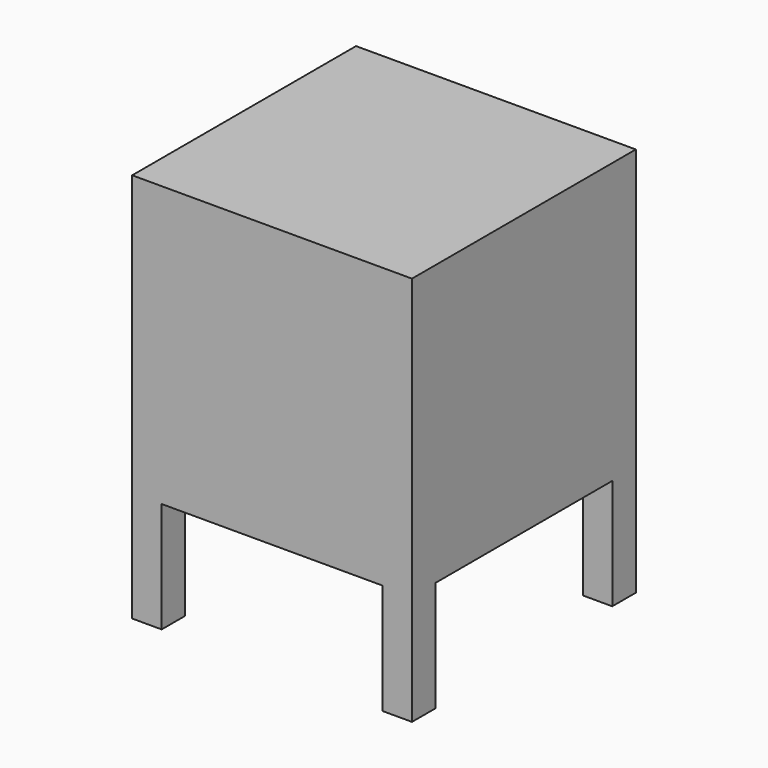
from build123d import *

# Parameters (mm, degrees)
F0_W     = 380
F0_H     = 380
F1_DEPTH = 380
F2_W     = 342
F2_H     = 342
F3_DEPTH = 361
F4_W     = 40
F4_H     = 40
F5_DEPTH = 150


with BuildPart() as f1:
    # F0 (on Top) → F1 (new body)
    with BuildSketch(Plane.XY):
        Rectangle(F0_W, F0_H)
    extrude(amount=F1_DEPTH)

    # F2 (on face) → F3 (cut)
    with BuildSketch(Plane(origin=(-190, 0, 0), x_dir=(0, -1, 0), z_dir=(-1, 0, 0))):
        with Locations((0, 190)):
            Rectangle(F2_W, F2_H)
    extrude(amount=-F3_DEPTH, mode=Mode.SUBTRACT)

    # F4 (on face) → F5 (join)
    with BuildSketch(Plane(origin=(0, 0, 0), x_dir=(1, 0, 0), z_dir=(0, 0, -1))):
        with Locations((170, 170)):
            Rectangle(F4_W, F4_H)
        with Locations((-170, 170)):
            Rectangle(F4_W, F4_H)
        with Locations((-170, -170)):
            Rectangle(F4_W, F4_H)
        with Locations((170, -170)):
            Rectangle(F4_W, F4_H)
    extrude(amount=F5_DEPTH)


solid = f1.part
